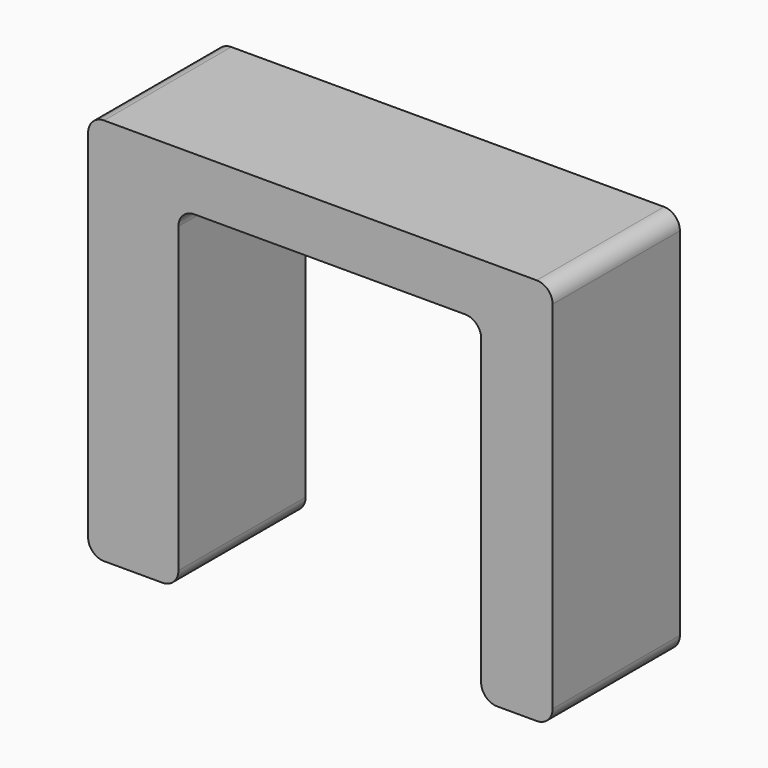
from build123d import *

# Parameters (mm, degrees)
F1_DEPTH = 25.4


with BuildPart() as f1:
    # F0 (on Front) → F1 (new body)
    with BuildSketch(Plane.XZ):
        with BuildLine():
            Line((36.189042, 29.96533), (-32.886568, 29.96533))
            ThreePointArc((-32.886568, 29.96533), (-34.682619, 29.221381), (-35.426568, 27.42533))
            Line((-35.426568, 27.42533), (-35.426568, -29.433977))
            ThreePointArc((-35.426568, -29.433977), (-34.682619, -31.230028), (-32.886568, -31.973977))
            Line((-32.886568, -31.973977), (-23.55576, -31.973977))
            ThreePointArc((-23.55576, -31.973977), (-21.759708, -31.230028), (-21.01576, -29.433977))
            Line((-21.01576, -29.433977), (-21.01576, 18.926099))
            ThreePointArc((-21.01576, 18.926099), (-20.271811, 20.72215), (-18.47576, 21.466099))
            Line((-18.47576, 21.466099), (24.780487, 21.466099))
            ThreePointArc((24.780487, 21.466099), (26.576539, 20.72215), (27.320487, 18.926099))
            Line((27.320487, 18.926099), (27.320487, -29.433977))
            ThreePointArc((27.320487, -29.433977), (28.064436, -31.230028), (29.860487, -31.973977))
            Line((29.860487, -31.973977), (36.189042, -31.973977))
            ThreePointArc((36.189042, -31.973977), (37.985093, -31.230028), (38.729042, -29.433977))
            Line((38.729042, -29.433977), (38.729042, 27.42533))
            ThreePointArc((38.729042, 27.42533), (37.985093, 29.221381), (36.189042, 29.96533))
        make_face()
    extrude(amount=F1_DEPTH)


solid = f1.part
